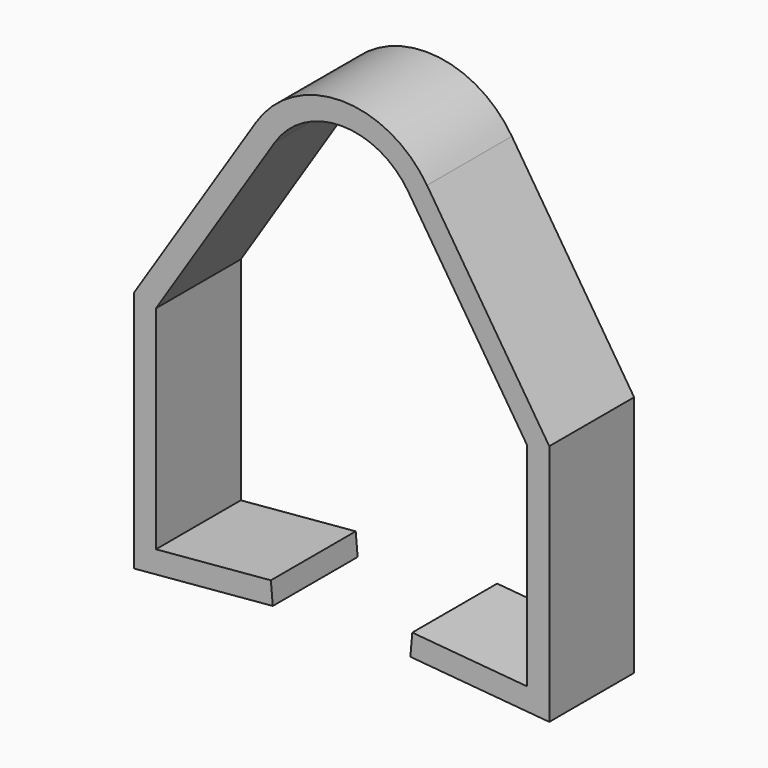
from build123d import *

# Parameters (mm, degrees)
F1_DEPTH = 19.05


with BuildPart() as f1:
    # F0 (on Front) → F1 (new body)
    with BuildSketch(Plane.XZ):
        with BuildLine():
            ThreePointArc((-12.014405, 7.732188), (0, 14.2875), (12.014405, 7.732188))
            Line((12.014405, 7.732188), (33.3375, -25.4))
            Line((33.3375, -25.4), (33.3375, -63.5))
            Line((33.3375, -63.5), (12.7, -61.694453))
            Line((12.7, -61.694453), (12.354654, -65.641775))
            Line((12.354654, -65.641775), (37.2999, -67.824201))
            Line((37.2999, -67.824201), (37.2999, -24.235141))
            Line((37.2999, -24.235141), (15.3464, 9.876581))
            ThreePointArc((15.3464, 9.876581), (0, 18.2499), (-15.3464, 9.876581))
            Line((-15.3464, 9.876581), (-37.2999, -24.235141))
            Line((-37.2999, -24.235141), (-37.2999, -67.824201))
            Line((-37.2999, -67.824201), (-12.354654, -65.641775))
            Line((-12.354654, -65.641775), (-12.7, -61.694453))
            Line((-12.7, -61.694453), (-33.3375, -63.5))
            Line((-33.3375, -63.5), (-33.3375, -25.4))
            Line((-33.3375, -25.4), (-12.014405, 7.732188))
        make_face()
    extrude(amount=F1_DEPTH)


solid = f1.part
